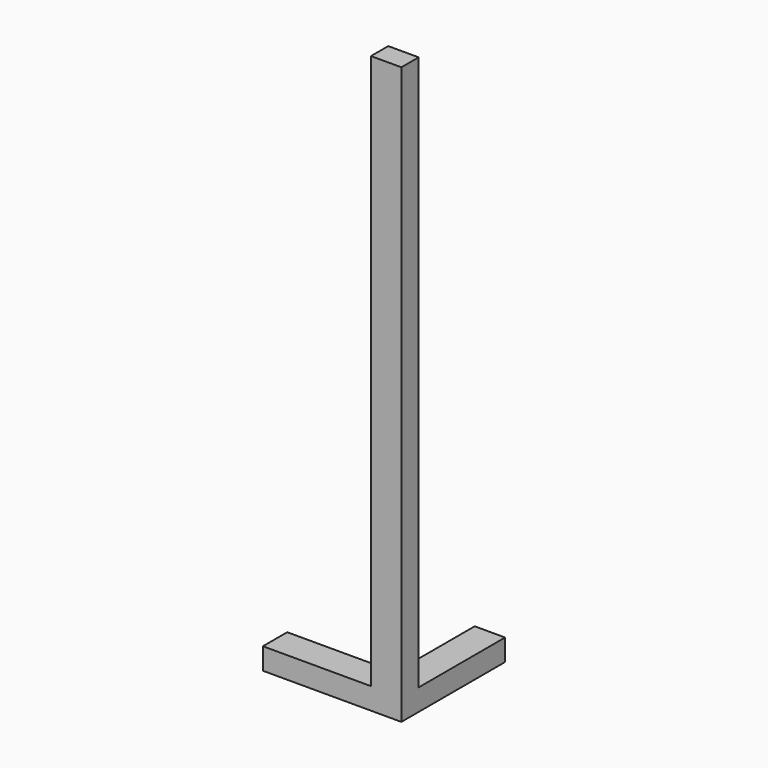
from build123d import *

# Parameters (mm, degrees)
F0_W     = 42.2
F0_H     = 30
F1_DEPTH = 800
F2_DEPTH = 30


with BuildPart() as f1:
    # F0 (on Top) → F1 (new body)
    with BuildSketch(Plane.XY):
        Rectangle(F0_W, F0_H)
    extrude(amount=F1_DEPTH)

    # F0 (on Top) → F2 (join)
    with BuildSketch(Plane.XY):
        Polygon((-171.1, -15), (-21.1, -15), (-21.1, 15), (-21.1, 27.2), (-171.1, 27.2), align=None)
        Polygon((-21.1, 15), (21.1, 15), (21.1, 165), (-21.1, 165), (-21.1, 27.2), align=None)
    extrude(amount=F2_DEPTH)


solid = f1.part
